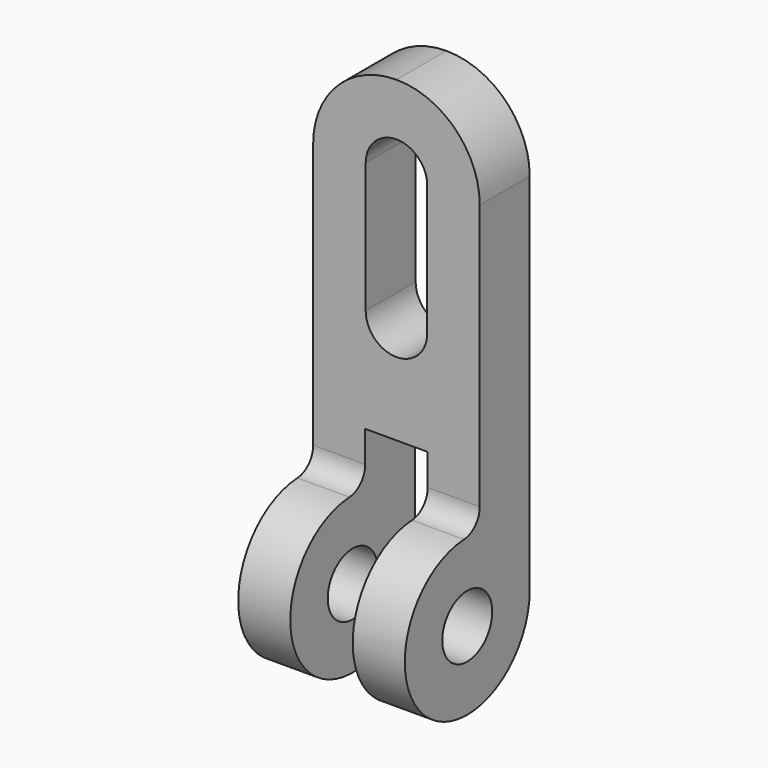
from build123d import *

# Parameters (mm, degrees)
F0_R     = 6
F1_DEPTH = 32
F2_W     = 12
F2_H     = 6.026334
F2_W_2   = 11.82259
F2_H_2   = 25
F2_H_3   = 33.973666
F3_DEPTH = 20


with BuildPart() as f1:
    # F0 (on Right) → F1 (new body)
    with BuildSketch(Plane.YZ):
        with BuildLine():
            Line((12, 0), (0, 0))
            Line((0, 0), (0, -67.026334))
            ThreePointArc((0, -67.026334), (-1.098095, -69.779323), (-3.789474, -71.02079))
            ThreePointArc((-3.789474, -71.02079), (-13.323708, -96.882144), (12, -86))
            Line((12, -86), (12, 0))
        make_face()
        with Locations((-3, -86)):
            Circle(F0_R, mode=Mode.SUBTRACT)
    extrude(amount=F1_DEPTH)

    # F2 (on face) → F3 (cut, symmetric)
    with BuildSketch(Plane.XZ):
        with Locations((16, -64.013167)):
            Rectangle(F2_W, F2_H)
        with BuildLine():
            ThreePointArc((10.088705, -41), (16, -46.911295), (21.911295, -41))
            Line((21.911295, -41), (10.088705, -41))
        make_face()
        with Locations((16, -28.5)):
            Rectangle(F2_W_2, F2_H_2)
        with BuildLine():
            Line((10.088705, -16), (21.911295, -16))
            ThreePointArc((21.911295, -16), (16, -10.088705), (10.088705, -16))
        make_face()
        with BuildLine():
            ThreePointArc((16, 0), (27.313708, -4.686292), (32, -16))
            Line((32, -16), (32, 0))
            Line((32, 0), (16, 0))
        make_face()
        with BuildLine():
            Line((0, 0), (0, -16))
            ThreePointArc((0, -16), (4.686292, -4.686292), (16, 0))
            Line((16, 0), (0, 0))
        make_face()
        with Locations((16, -84.013167)):
            Rectangle(F2_W, F2_H_3)
    extrude(amount=F3_DEPTH, both=True, mode=Mode.SUBTRACT)


solid = f1.part
